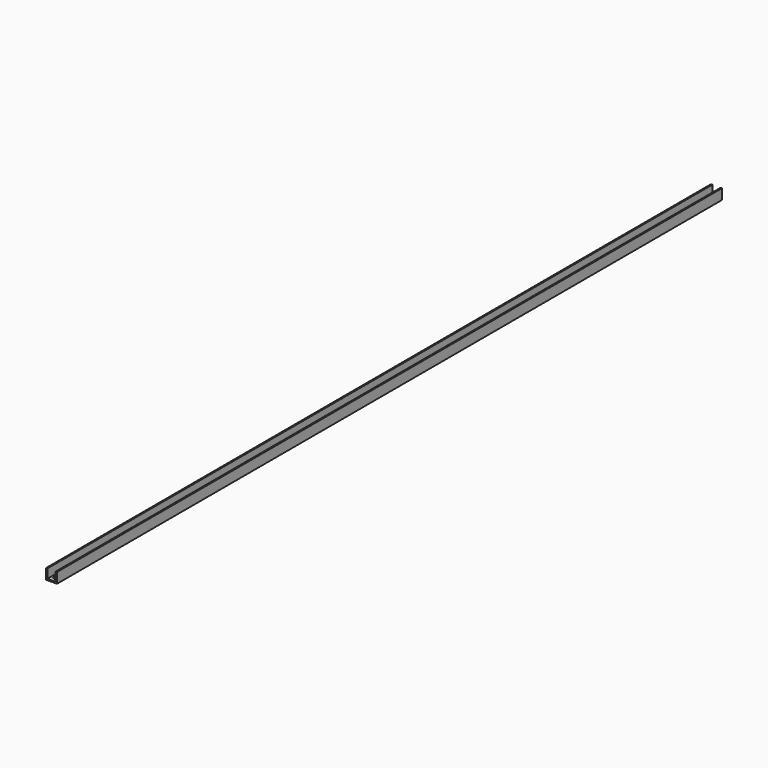
from build123d import *

# Parameters (mm, degrees)
F1_DEPTH      = 381
F1_DEPTH_BACK = 381
F2_R          = 2
F3_DEPTH      = 1.2
F4_R          = 2
F5_DEPTH      = 9.526


with BuildPart() as f1:
    # F0 (on Front) → F1 (new body, two sides)
    with BuildSketch(Plane.XZ) as f1_sk:
        Polygon((-3.8062, 9.525), (-5, 9.525), (-5, 0), (0, 0), (5, 0), (5, 9.525), (3.8062, 9.525), (3.8062, 1.2), (-3.8062, 1.2), align=None)
    extrude(amount=F1_DEPTH)
    extrude(f1_sk.sketch, amount=-F1_DEPTH_BACK)

    # F2 (on face) → F3 (cut, through all)
    with BuildSketch(Plane(origin=(0, 0, 0), x_dir=(1, 0, 0), z_dir=(0, 0, -1))):
        Circle(F2_R)
    extrude(amount=-F3_DEPTH, mode=Mode.SUBTRACT)

    # F4 (on face) → F5 (cut, through all)
    with BuildSketch(Plane(origin=(0, 0, 0), x_dir=(1, 0, 0), z_dir=(0, 0, -1))):
        with Locations((0, 376)):
            Circle(F4_R)
    extrude(amount=-F5_DEPTH, mode=Mode.SUBTRACT)


solid = f1.part
